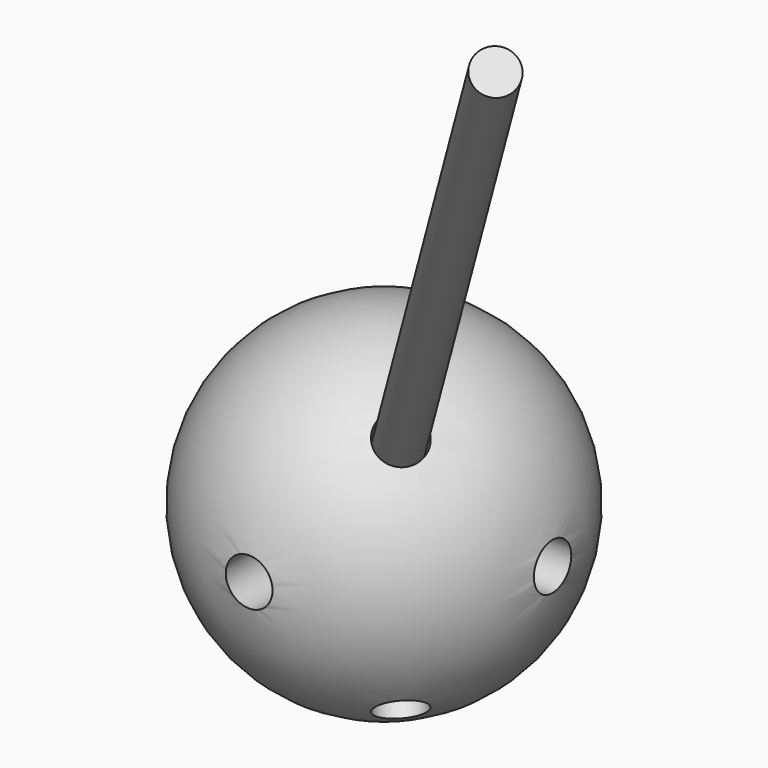
from build123d import *

# Parameters (mm, degrees)
F6_R      = 2.75
F7_DEPTH  = 11
F9_R      = 2.75
F10_DEPTH = 11
F14_R     = 2.75
F15_DEPTH = 11
F17_R     = 2.75
F18_DEPTH = 11
F19_R     = 2.5
F20_DEPTH = 122


with BuildPart() as f4:
    # F3 (on Front) → F4 (revolve)
    with BuildSketch(Plane.XZ):
        with BuildLine():
            ThreePointArc((0, 20), (-20, 0), (0, -20))
            Line((0, -20), (0, 20))
        make_face()
    revolve(axis=Axis((0, 0, 0), (0, 0, -1)))

    # F6 (on offset) → F7 (cut)
    with BuildSketch(Plane.XZ.offset(20)):
        Circle(F6_R)
    extrude(amount=-F7_DEPTH, mode=Mode.SUBTRACT)

    # F9 (on offset) → F10 (cut)
    with BuildSketch(Plane.YZ.offset(20)):
        Circle(F9_R)
    extrude(amount=-F10_DEPTH, mode=Mode.SUBTRACT)

    # F14 (on line) → F15 (cut)
    with BuildSketch(Plane(origin=(10, -10, 14.1421356237), x_dir=(0.8660254038, 0.2886751346, -0.4082482905), z_dir=(-0.5, 0.5, -0.7071067812))):
        Circle(F14_R)
    extrude(amount=F15_DEPTH, mode=Mode.SUBTRACT)

    # F17 (on line) → F18 (cut)
    with BuildSketch(Plane(origin=(10, -10, -14.1421356237), x_dir=(0.8660254038, 0.2886751346, 0.4082482905), z_dir=(-0.5, 0.5, 0.7071067812))):
        Circle(F17_R)
    extrude(amount=F18_DEPTH, mode=Mode.SUBTRACT)


with BuildPart() as f20:
    # F19 (on face) → F20 (new body)
    with BuildSketch(Plane(origin=(4.5, -4.5, 6.3639610307), x_dir=(0.8660254038, 0.2886751346, -0.4082482905), z_dir=(0.5, -0.5, 0.7071067812))):
        Circle(F19_R)
    extrude(amount=F20_DEPTH)


solid = Compound([f4.part, f20.part])
